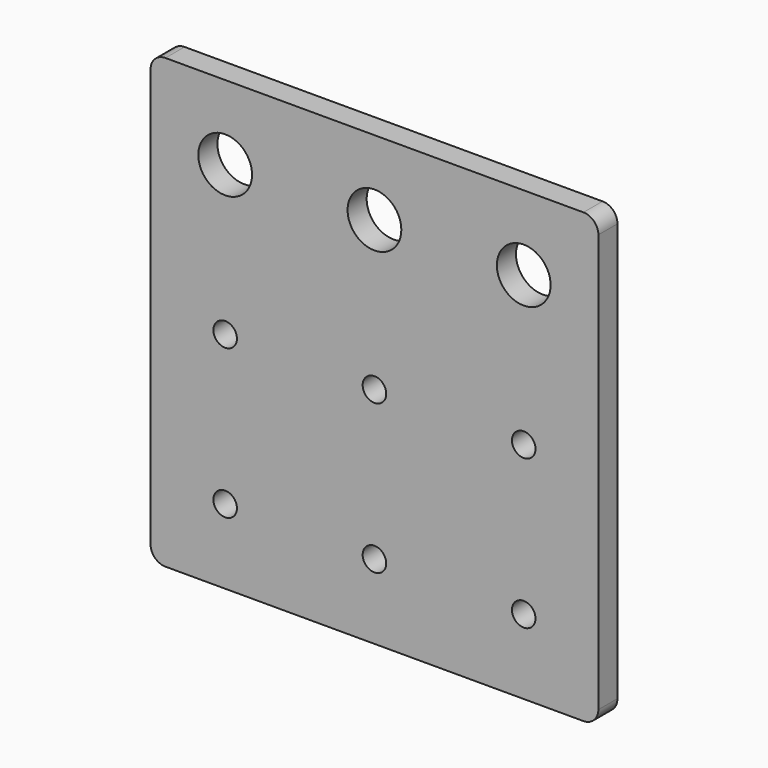
from build123d import *

# Parameters (mm, degrees)
F0_W     = 150
F0_H     = 150
F0_R     = 3.95
F0_R_2   = 9
F1_DEPTH = 8
F2_R     = 5
F3_R     = 5
F4_R     = 5
F5_R     = 5


with BuildPart() as f1:
    # F0 (on Front) → F1 (new body)
    with BuildSketch(Plane.XZ):
        Rectangle(F0_W, F0_H)
        with Locations((-50, -50)):
            Circle(F0_R, mode=Mode.SUBTRACT)
        with Locations((0, -50)):
            Circle(F0_R, mode=Mode.SUBTRACT)
        with Locations((50, -50)):
            Circle(F0_R, mode=Mode.SUBTRACT)
        with Locations((-50, 0)):
            Circle(F0_R, mode=Mode.SUBTRACT)
        with Locations((-50, 50)):
            Circle(F0_R_2, mode=Mode.SUBTRACT)
        Circle(F0_R, mode=Mode.SUBTRACT)
        with Locations((50, 0)):
            Circle(F0_R, mode=Mode.SUBTRACT)
        with Locations((0, 50)):
            Circle(F0_R_2, mode=Mode.SUBTRACT)
        with Locations((50, 50)):
            Circle(F0_R_2, mode=Mode.SUBTRACT)
    extrude(amount=F1_DEPTH)

    # F2
    f2_edges = [f1.edges().sort_by_distance(p)[0] for p in [
        (75, -4, 75),
    ]]
    fillet(f2_edges, radius=F2_R)

    # F3
    f3_edges = [f1.edges().sort_by_distance(p)[0] for p in [
        (75, -4, -75),
    ]]
    fillet(f3_edges, radius=F3_R)

    # F4
    f4_edges = [f1.edges().sort_by_distance(p)[0] for p in [
        (-75, -4, -75),
    ]]
    fillet(f4_edges, radius=F4_R)

    # F5
    f5_edges = [f1.edges().sort_by_distance(p)[0] for p in [
        (-75, -4, 75),
    ]]
    fillet(f5_edges, radius=F5_R)


solid = f1.part
